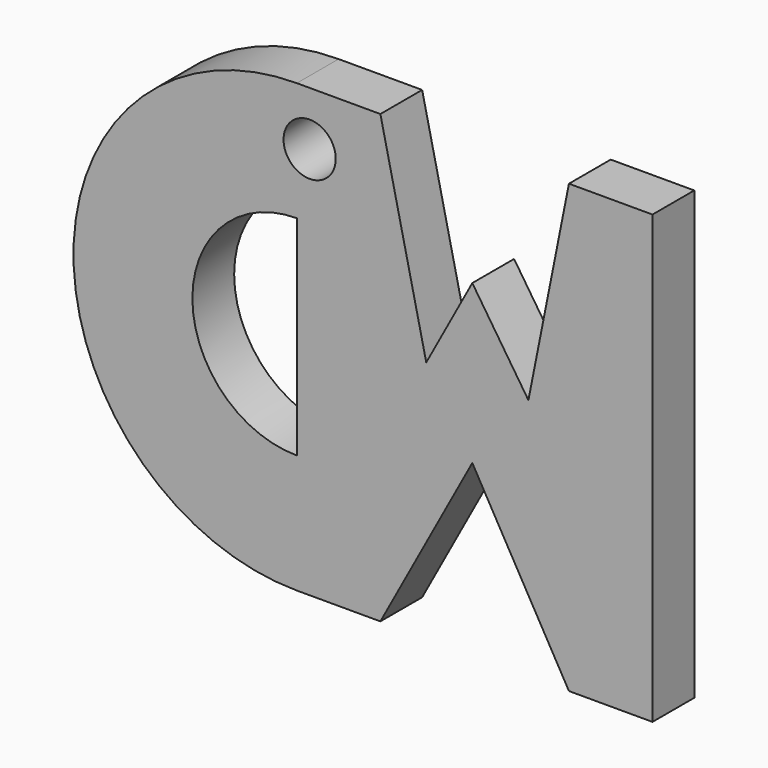
from build123d import *

# Parameters (mm, degrees)
F1_DEPTH = 6.35
F2_R     = 3.175
F3_DEPTH = 6.351


with BuildPart() as f1:
    # F0 (on Front) → F1 (new body)
    with BuildSketch(Plane.XZ):
        Polygon((48.828697, 52.925415), (38.668697, 52.925415), (38.668697, 45.305415), (38.668697, 38.468091), (38.668697, 13.068091), (38.668697, 6.230767), (38.668697, -1.389233), (48.828697, -1.389233), (60.007791, 19.215648), (71.75609, -1.389233), (81.91609, -1.389233), (81.91609, 52.925415), (71.75609, 52.925415), (66.830061, 28.145618), (60.007791, 38.468091), (54.407375, 28.145618), align=None)
        with BuildLine():
            Line((38.668697, 45.305415), (38.668697, 52.925415))
            ThreePointArc((38.668697, 52.925415), (11.511373, 25.768091), (38.668697, -1.389233))
            Line((38.668697, -1.389233), (38.668697, 6.230767))
            Line((38.668697, 6.230767), (38.668697, 13.068091))
            ThreePointArc((38.668697, 13.068091), (25.968697, 25.768091), (38.668697, 38.468091))
            Line((38.668697, 38.468091), (38.668697, 45.305415))
        make_face()
    extrude(amount=F1_DEPTH)

    # F2 (on face) → F3 (cut, through all)
    with BuildSketch(Plane.XZ.offset(6.35)):
        with Locations((40.227063, 46.362381)):
            Circle(F2_R)
    extrude(amount=-F3_DEPTH, mode=Mode.SUBTRACT)


solid = f1.part
